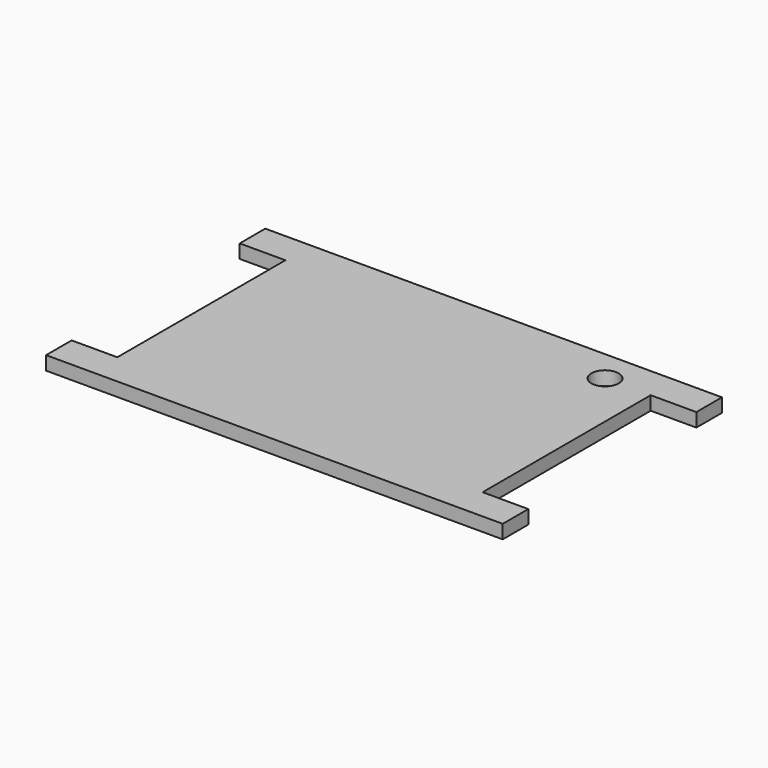
from build123d import *

# Parameters (mm, degrees)
F0_W     = 100
F0_H     = 60
F1_DEPTH = 3
F2_W     = 10
F2_H     = 23
F3_DEPTH = 3.001
F4_R     = 3
F5_DEPTH = 3.001


with BuildPart() as f1:
    # F0 (on Top) → F1 (new body)
    with BuildSketch(Plane.XY):
        Rectangle(F0_W, F0_H)
    extrude(amount=F1_DEPTH)

    # F2 (on face) → F3 (cut, through all)
    with BuildSketch(Plane.XY.offset(3)):
        with Locations((-45, 11.5)):
            Rectangle(F2_W, F2_H)
        with Locations((-45, -11.5)):
            Rectangle(F2_W, F2_H)
        with Locations((45, 11.5)):
            Rectangle(F2_W, F2_H)
        with Locations((45, -11.5)):
            Rectangle(F2_W, F2_H)
    extrude(amount=-F3_DEPTH, mode=Mode.SUBTRACT)

    # F4 (on face) → F5 (cut, through all)
    with BuildSketch(Plane.XY.offset(3)):
        with Locations((30, 23)):
            Circle(F4_R)
    extrude(amount=-F5_DEPTH, mode=Mode.SUBTRACT)


solid = f1.part
